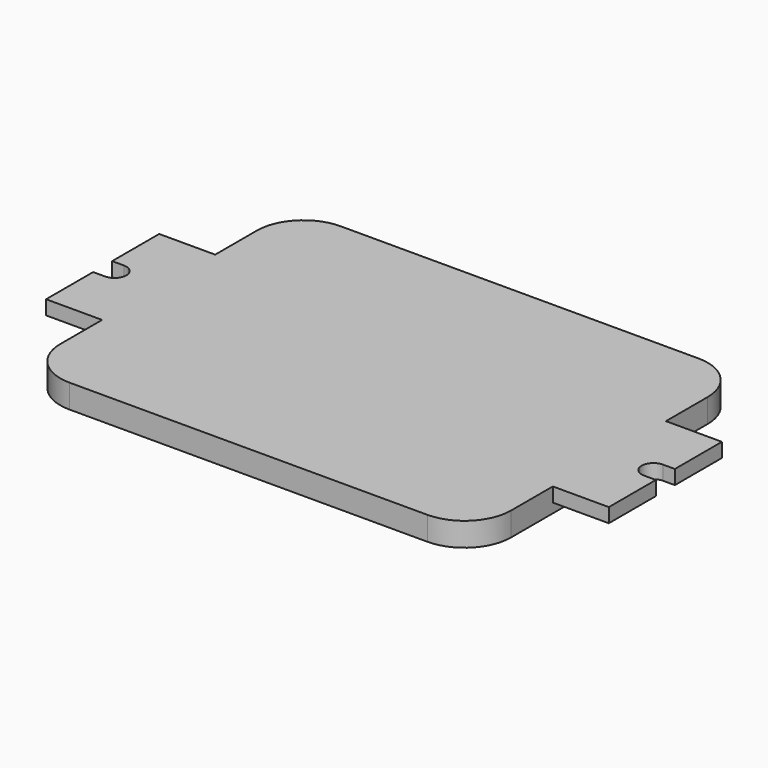
from build123d import *

# Parameters (mm, degrees)
PAD_DEPTH    = 3.175
PAD001_DEPTH = 1.905


with BuildPart() as part:
    # Sketch → Pad (new body)
    with BuildSketch(Plane.XY):
        with BuildLine():
            Line((-30.1625, -16.4465), (-30.1625, 16.4465))
            ThreePointArc((-23.9395, 22.6695), (-28.339825, 20.846825), (-30.1625, 16.4465))
            Line((-23.9395, 22.6695), (23.9395, 22.6695))
            ThreePointArc((30.1625, 16.4465), (28.339825, 20.846825), (23.9395, 22.6695))
            Line((30.1625, 16.4465), (30.1625, -16.4465))
            ThreePointArc((23.9395, -22.6695), (28.339825, -20.846825), (30.1625, -16.4465))
            Line((23.9395, -22.6695), (-23.9395, -22.6695))
            ThreePointArc((-30.1625, -16.4465), (-28.339825, -20.846825), (-23.9395, -22.6695))
        make_face()
    extrude(amount=PAD_DEPTH)

    # Sketch001 (on Face10 of Pad) → Pad001 (join)
    with BuildSketch(Plane.XY.offset(3.175)):
        with BuildLine():
            Line((30.1625, -9.4615), (30.1625, 9.4615))
            Line((30.1625, 9.4615), (37.6555, 9.4615))
            Line((37.6555, 9.4615), (37.6555, 1.5875))
            Line((36.068, 1.5875), (37.6555, 1.5875))
            ThreePointArc((36.068, 1.5875), (34.4805, 0), (36.068, -1.5875))
            Line((36.068, -1.5875), (37.6555, -1.5875))
            Line((37.6555, -1.5875), (37.6555, -9.4615))
            Line((37.6555, -9.4615), (30.1625, -9.4615))
        make_face()
        with BuildLine():
            Line((-37.6555, -9.4615), (-37.6555, -1.5875))
            Line((-36.068, -1.5875), (-37.6555, -1.5875))
            ThreePointArc((-36.068, -1.5875), (-34.4805, 0), (-36.068, 1.5875))
            Line((-36.068, 1.5875), (-37.6555, 1.5875))
            Line((-37.6555, 1.5875), (-37.6555, 9.4615))
            Line((-37.6555, 9.4615), (-30.1625, 9.4615))
            Line((-30.1625, 9.4615), (-30.1625, -9.4615))
            Line((-30.1625, -9.4615), (-37.6555, -9.4615))
        make_face()
    extrude(amount=-PAD001_DEPTH)


solid = part.part
